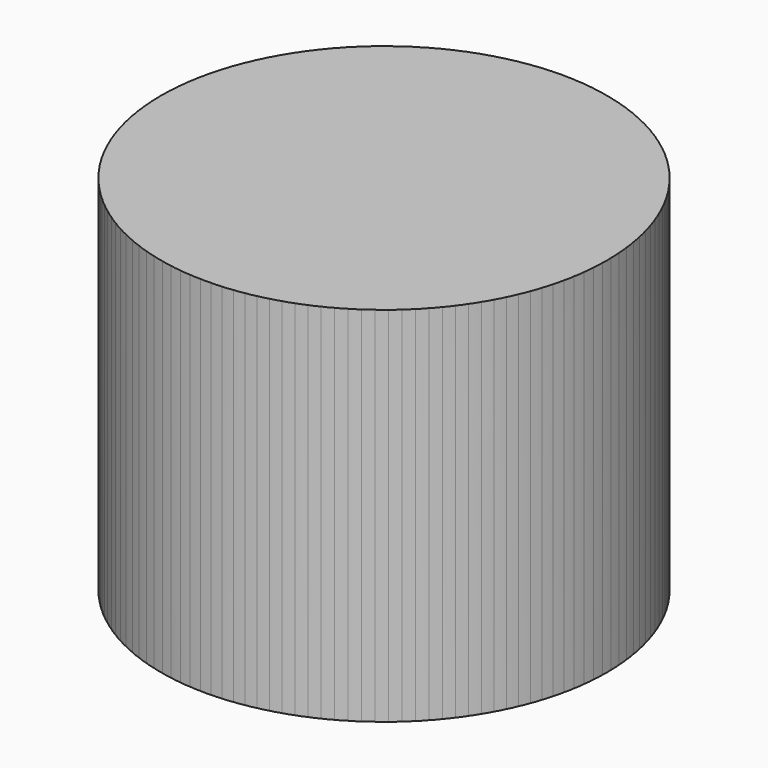
from build123d import *

# Parameters (mm, degrees)
F0_W     = 3.1242
F0_H     = 5.08
F2_R     = 3.1242
F3_DEPTH = 5.08


with BuildPart() as f1:
    # F0 (on Right) → F1 (revolve)
    with BuildSketch(Plane.YZ):
        with Locations((1.5621, 2.54)):
            Rectangle(F0_W, F0_H)
    revolve(axis=Axis((0, 0, 2.54), (0, 0, 1)))


with BuildPart() as f3:
    # F2 (on Top) → F3 (new body)
    with BuildSketch(Plane.XY):
        Circle(F2_R)
    extrude(amount=F3_DEPTH)


solid = Compound([f1.part, f3.part])
